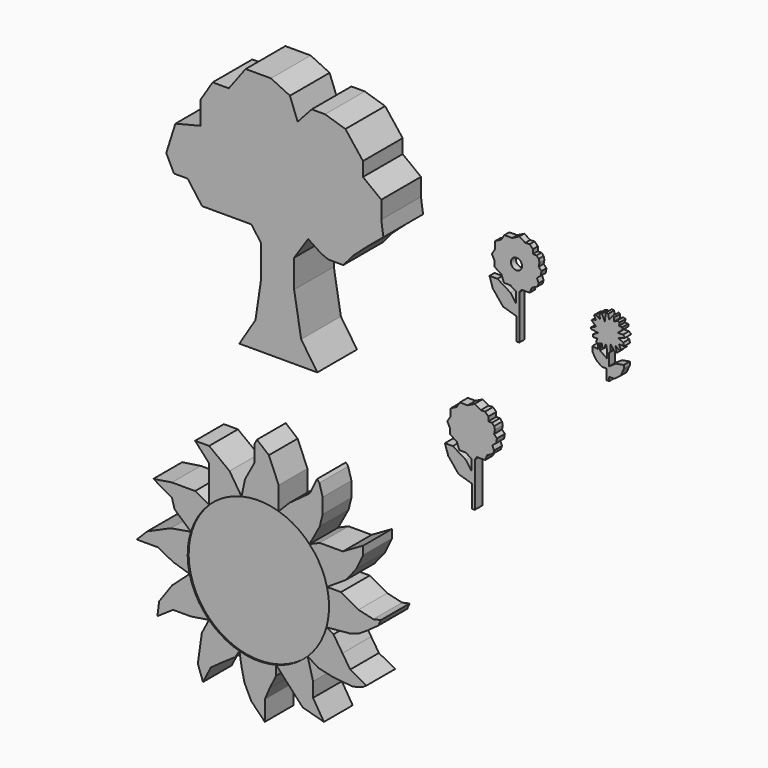
from build123d import *

# Parameters (mm, degrees)
F1_DEPTH       = 10.16
F2_T           = -2.54
F4_DEPTH       = 1.27
F6_D           = 1.143
F6_CBORE_D     = 2.286
F6_CBORE_DEPTH = 12.7
F8_DEPTH       = 2.032
F10_DEPTH      = 1.524
F12_DEPTH      = 7.366
F13_DEPTH      = 7.112


with BuildPart() as f1:
    # F0 (on Front) → F1 (new body)
    with BuildSketch(Plane.XZ):
        Polygon((-49.3586882949, 1.1512254132), (-33.3854667842, 1.1512254132), (-36.6952344775, 6.0439240187), (-38.1342619658, 14.5341930911), (-38.1342619658, 20.2903095633), (-35.256203264, 24.6073957533), (-32.567439448, 22.8148857692), (-31.1005488038, 22.2385339615), (-28.0610602349, 22.2385339615), (-26.0464213789, 24.6073957533), (-23.3122706413, 27.0537417382), (-19.8586024344, 29.9317985773), (-20.2903114259, 32.9537577927), (-20.2903114259, 36.5513302386), (-24.0317843854, 39.4293889403), (-24.0317843854, 42.3074476421), (-27.6293568313, 46.9123385847), (-31.8025425076, 48.2074655592), (-34.5366969705, 48.2074655592), (-37.4147519469, 45.0416021049), (-38.9976836741, 49.2147840559), (-42.8830571473, 51.085524261), (-48.0635613203, 51.085524261), (-51.5172295272, 46.4806333184), (-54.8269972205, 46.4806333184), (-57.2733432055, 42.59525612), (-57.2733432055, 37.8464609385), (-62.4538511038, 36.5513339639), (-64.3245875835, 30.6513160467), (-62.7416595817, 27.4616854338), (-59.936969516, 27.4616854338), (-58.5191248829, 25.5374682793), (-56.9855384529, 23.4561730176), (-52.8123565018, 23.4561730176), (-49.7903972864, 23.4561730176), (-46.9123385847, 23.4561730176), (-44.897697866, 20.7220185548), (-44.897697866, 14.2463883385), (-46.0489206016, 6.4756325446), align=None)
    extrude(amount=-F1_DEPTH)

    # F2 (hollow: no face is removed)
    offset(amount=F2_T, kind=Kind.INTERSECTION, mode=Mode.SUBTRACT)


with BuildPart() as f4:
    # F3 (on Front) → F4 (new body)
    with BuildSketch(Plane.XZ):
        Polygon((7.4410112575, 19.9936237186), (7.985544391, 19.9936237186), (7.985544391, 29.069179669), (8.4249047594, 29.6680759639), (10.1208696142, 29.6680759639), (10.5180805549, 30.6943561882), (11.694601737, 31.2933139503), (11.9512965903, 31.9992266595), (11.5876449272, 32.8120961785), (12.3577313498, 33.4324426949), (12.5288618729, 34.3522690237), (11.9512965903, 34.9512249231), (12.1050868183, 35.7733517885), (11.9512965903, 36.3838784397), (11.5096953503, 36.8418347536), (10.7568372041, 36.8418347536), (10.7568372041, 37.7321317792), (10.108580058, 38.4043976749), (9.1991248812, 38.3680984378), (7.985544391, 39.1127951443), (6.5340171568, 38.3680984378), (4.9145366866, 38.3680984378), (4.2948187329, 37.358187139), (3.0446275263, 36.6926454008), (3.0446275263, 35.2692993545), (2.3586999159, 34.1514907777), (2.8893150611, 33.1229269505), (2.8893150611, 31.9887731454), (4.2948187329, 31.1263054609), (4.83935175, 29.7347195446), (6.1099296436, 29.7347195446), (7.3200040497, 29.0086753666), (7.3200040497, 26.7700385302), (7.4410112575, 24.5314016938), align=None)
        Polygon((4.6578408219, 25.3784544766), (7.4410112575, 24.5314016938), (7.3200040497, 26.7700385302), (6.1704334803, 28.4036397934), (3.5082700197, 30.0372391939), (1.8746703863, 30.0372391939), (2.5402109604, 27.980113402), align=None)
    extrude(amount=-F4_DEPTH)

    # F6 (through all)
    with Locations(Plane.XZ):
        with Locations((7.4002626352, 33.9612066746)):
            CounterBoreHole(F6_D / 2, F6_CBORE_D / 2, F6_CBORE_DEPTH)


with BuildPart() as f8:
    # F7 (on Front) → F8 (new body)
    with BuildSketch(Plane.XZ):
        Polygon((-0.0630910555, -11.7885300568), (0.481442078, -11.7885300568), (0.481442078, -2.7129741064), (0.9208024464, -2.1140778116), (2.6167673012, -2.1140778116), (3.0139782419, -1.0877975872), (4.190499424, -0.4888398251), (4.4471942773, 0.2170728841), (4.0835426142, 1.0299424031), (4.8536290368, 1.6502889195), (5.0247595599, 2.5701152482), (4.4471942773, 3.1690711477), (4.6009845053, 3.9911980131), (4.4471942773, 4.6017246642), (4.0055930373, 5.0596809782), (3.2527348911, 5.0596809782), (3.2527348911, 5.9499780038), (2.604477745, 6.6222438995), (1.6950225682, 6.5859446624), (0.481442078, 7.3306413689), (-0.9700851562, 6.5859446624), (-2.5895656264, 6.5859446624), (-3.2092835801, 5.5760333636), (-4.4594747867, 4.9104916253), (-4.4594747867, 3.4871455791), (-5.1454023971, 2.3693370023), (-4.6147872519, 1.340773175), (-4.6147872519, 0.20661937), (-3.2092835801, -0.6558483145), (-2.664750563, -2.0474342308), (-1.3941726694, -2.0474342308), (-0.1840982633, -2.7734784088), (-0.1840982633, -5.0121152452), (-0.0630910555, -7.2507520816), align=None)
        Polygon((-2.8462614911, -6.4036992988), (-0.0630910555, -7.2507520816), (-0.1840982633, -5.0121152452), (-1.3336688327, -3.378513982), (-3.9958322933, -1.7449145815), (-5.6294319267, -1.7449145815), (-4.9638913526, -3.8020403734), align=None)
    extrude(amount=F8_DEPTH)


with BuildPart() as f10:
    # F9 (on Front) → F10 (new body)
    with BuildSketch(Plane.XZ):
        Polygon((27.128951624, 25.7052686065), (27.5523904711, 25.120517239), (27.8750117868, 25.543956086), (27.8750117868, 26.8142763525), (28.7622194737, 25.6851036102), (29.2058233172, 25.6851036102), (28.8227107376, 26.8949326128), (29.6494271606, 26.2900181115), (30.0123747438, 26.4513287693), (29.6240647412, 27.3250229124), (30.677780509, 27.3250229124), (30.4761435837, 27.9232859612), (29.5284446329, 28.4072179347), (30.8995824307, 28.9314761758), (30.4358154535, 29.3347537518), (29.3872971088, 29.3347537518), (30.2946697921, 30.1413051784), (30.2946697921, 30.625237152), (29.5889358968, 30.625237152), (29.7502465546, 31.3309691846), (29.2284742634, 31.4502317767), (28.627025216, 31.1091691256), (28.6108504651, 31.8531986993), (28.3589437604, 32.0568680763), (27.5927186012, 31.1091691256), (27.3888777139, 32.0957534456), (26.9071497023, 32.1576856077), (26.6971726888, 30.524417758), (26.114897459, 31.741905441), (25.5360100418, 31.6132642329), (25.7779750973, 30.524417758), (24.8975300205, 31.1297386449), (24.5079661513, 30.9434259662), (24.8975300205, 30.1288812485), (24.5079661513, 30.1204123667), (24.0035597235, 29.8791751266), (24.8975300205, 28.9943241251), (24.5079661513, 28.8080114464), (23.8215899134, 28.479745389), (23.9430684596, 28.2257441431), (25.2940431237, 28.0039422214), (24.3160656901, 27.4207243299), (24.3274573813, 26.8967128464), (25.173060596, 26.9150957465), (24.9259189807, 26.2907673418), (25.072241202, 25.9472317994), (25.8787944913, 26.2907673418), (26.114897459, 26.2907673418), (26.1298903566, 25.6011023638), (26.3627264649, 25.4633016884), (26.9474759698, 26.4513287693), align=None)
        Polygon((27.0886234939, 22.1362728626), (27.0886234939, 20.0190730393), (27.5927186012, 20.0190730393), (27.5927186012, 20.8054613322), (27.5523904711, 22.6605329663), (27.5523904711, 25.120517239), (27.128951624, 25.7052686065), (27.128951624, 23.9711795002), (25.7376488298, 24.9592065811), (25.7376488298, 26.1085443199), (25.27387999, 25.8867423981), (25.27387999, 25.0600259751), (24.1447072476, 25.2414997667), (24.1447072476, 24.2938008159), (24.8907674104, 23.0234805495), (26.100596413, 22.1362728626), align=None)
        Polygon((27.5523904711, 22.6605329663), (27.5927186012, 20.8054613322), (28.7218913436, 20.8256263286), (29.9720484763, 21.7934884131), (30.5971261114, 23.2452824712), (30.5971261114, 23.9308532327), (29.0041863918, 23.6485581845), (28.0363224447, 23.0033174157), align=None)
    extrude(amount=F10_DEPTH)


with BuildPart() as f12:
    # F11 (on Front) → F12 (new body)
    with BuildSketch(Plane.XZ):
        with BuildLine():
            Line((-44.3009428822, -50.7207894667), (-43.4404728747, -49.3459318914))
            ThreePointArc((-43.4404728747, -49.3459318914), (-46.7847521085, -47.9474551057), (-49.6765977863, -45.7617814133))
            Line((-49.6765977863, -45.7617814133), (-51.1408634484, -48.5701039433))
            Line((-51.1408634484, -48.5701039433), (-51.9680343568, -54.3978996575))
            Line((-51.9680343568, -54.3978996575), (-50.9152710438, -57.368196547))
            Line((-50.9152710438, -57.368196547), (-49.2985285819, -54.2099066079))
            Line((-49.2985285819, -54.2099066079), (-46.6290228069, -52.2923730314))
            Line((-46.6290228069, -52.2923730314), (-44.3009428822, -50.7207894667))
        make_face()
    extrude(amount=F12_DEPTH)


with BuildPart() as f12b:
    # F11 (on Front) → F12, piece 2 (new body)
    with BuildSketch(Plane.XZ):
        with BuildLine():
            Line((-53.3591881394, -46.3517792523), (-49.6765977863, -45.7617814133))
            ThreePointArc((-49.6765977863, -45.7617814133), (-52.1561482038, -42.5494285312), (-53.6463669771, -38.7749577976))
            Line((-53.6463669771, -38.7749577976), (-57.2318509221, -41.9903323054))
            Line((-57.2318509221, -41.9903323054), (-59.9013604224, -45.7617814133))
            Line((-59.9013604224, -45.7617814133), (-60.2397471666, -48.5325045884))
            Line((-60.2397471666, -48.5325045884), (-57.0438578725, -46.3517792523))
            Line((-57.0438578725, -46.3517792523), (-53.3591881394, -46.3517792523))
        make_face()
    extrude(amount=F12_DEPTH)


with BuildPart() as f12c:
    # F11 (on Front) → F12, piece 3 (new body)
    with BuildSketch(Plane.XZ):
        with BuildLine():
            ThreePointArc((-53.6463669771, -38.7749577976), (-54.0369984396, -34.9079206853), (-53.384391537, -31.0763840225))
            Line((-53.384391537, -31.0763840225), (-57.5326420367, -31.8010896444))
            Line((-57.5326420367, -31.8010896444), (-62.3076744378, -33.9066162705))
            Line((-62.3076744378, -33.9066162705), (-64.4684880972, -36.079826484))
            Line((-64.4684880972, -36.079826484), (-60.1590225763, -36.079826484))
            Line((-60.1590225763, -36.079826484), (-57.0438578725, -37.7040803432))
            Line((-57.0438578725, -37.7040803432), (-53.6463669771, -38.7749577976))
        make_face()
    extrude(amount=F12_DEPTH)


with BuildPart() as f12d:
    # F11 (on Front) → F12, piece 4 (new body)
    with BuildSketch(Plane.XZ):
        with BuildLine():
            ThreePointArc((-53.384391537, -31.0763840225), (-51.8947261541, -27.8091047281), (-49.6464930475, -25.0091645791))
            Line((-49.6464930475, -25.0091645791), (-52.5245480239, -23.4561692923))
            Line((-52.5245480239, -23.4561692923), (-57.2733432055, -23.4561692923))
            Line((-57.2733432055, -23.4561692923), (-61.0706916354, -24.0343352772))
            Line((-61.0706916354, -24.0343352772), (-57.2733432055, -26.1903237551))
            Line((-57.2733432055, -26.1903237551), (-56.7168168011, -28.1291678552))
            Line((-56.7168168011, -28.1291678552), (-53.384391537, -31.0763840225))
        make_face()
    extrude(amount=F12_DEPTH)


with BuildPart() as f12e:
    # F11 (on Front) → F12, piece 5 (new body)
    with BuildSketch(Plane.XZ):
        with BuildLine():
            ThreePointArc((-49.6464930475, -25.0091645791), (-46.5776485619, -22.7359818336), (-43.0210309995, -21.3447098309))
            Line((-43.0210309995, -21.3447098309), (-45.4733073711, -17.5561513752))
            Line((-45.4733073711, -17.5561513752), (-49.6464930475, -14.3902888522))
            Line((-49.6464930475, -14.3902888522), (-52.5245480239, -14.3902888522))
            Line((-52.5245480239, -14.3902888522), (-49.6464930475, -17.5561513752))
            Line((-49.6464930475, -17.5561513752), (-49.6464930475, -21.8732375652))
            Line((-49.6464930475, -21.8732375652), (-49.6464930475, -25.0091645791))
        make_face()
    extrude(amount=F12_DEPTH)


with BuildPart() as f12f:
    # F11 (on Front) → F12, piece 6 (new body)
    with BuildSketch(Plane.XZ):
        with BuildLine():
            ThreePointArc((-43.0210309995, -21.3447098309), (-39.2012497774, -20.9328094842), (-35.4076880997, -21.5404938416))
            Line((-35.4076880997, -21.5404938416), (-35.4076880997, -16.8366318149))
            Line((-35.4076880997, -16.8366318149), (-37.4182048665, -12.085968847))
            Line((-37.4182048665, -12.085968847), (-39.8512596848, -10.0713281283))
            Line((-39.8512596848, -10.0713281283), (-40.4080982027, -11.0995909657))
            Line((-40.4080982027, -11.0995909657), (-40.4080982027, -14.5026352715))
            Line((-40.4080982027, -14.5026352715), (-42.2928309409, -17.9829990948))
            Line((-42.2928309409, -17.9829990948), (-43.0210309995, -21.3447098309))
        make_face()
    extrude(amount=F12_DEPTH)


with BuildPart() as f12g:
    # F11 (on Front) → F12, piece 7 (new body)
    with BuildSketch(Plane.XZ):
        with BuildLine():
            ThreePointArc((-35.4076880997, -21.5404938416), (-32.0003067176, -23.0675871621), (-29.0970503414, -25.4156425929))
            Line((-29.0970503414, -25.4156425929), (-26.9985284374, -21.5404938416))
            Line((-26.9985284374, -21.5404938416), (-26.4009311795, -19.1679317504))
            Line((-26.4009311795, -19.1679317504), (-26.4009311795, -16.0848405212))
            Line((-26.4009311795, -16.0848405212), (-27.0777083933, -13.7161230668))
            Line((-27.0777083933, -13.7161230668), (-27.5288932025, -13.1521429867))
            Line((-27.5288932025, -13.1521429867), (-29.0704388171, -16.2728335708))
            Line((-29.0704388171, -16.2728335708), (-33.1686958671, -19.2807279527))
            Line((-33.1686958671, -19.2807279527), (-35.4076880997, -21.5404938416))
        make_face()
    extrude(amount=F12_DEPTH)


with BuildPart() as f12h:
    # F11 (on Front) → F12, piece 8 (new body)
    with BuildSketch(Plane.XZ):
        with BuildLine():
            ThreePointArc((-29.0970503414, -25.4156425929), (-26.8767937957, -28.4545964719), (-25.5152180125, -31.9632844309))
            Line((-25.5152180125, -31.9632844309), (-21.6259006411, -29.4323731214))
            Line((-21.6259006411, -29.4323731214), (-19.4932212734, -26.7621489931))
            Line((-19.4932212734, -26.7621489931), (-18.09162274, -23.7925704569))
            Line((-18.09162274, -23.7925704569), (-18.09162274, -22.100629285))
            Line((-18.09162274, -22.100629285), (-22.2650766373, -24.506945163))
            Line((-22.2650766373, -24.506945163), (-26.9985284374, -24.506945163))
            Line((-26.9985284374, -24.506945163), (-29.0970503414, -25.4156425929))
        make_face()
    extrude(amount=F12_DEPTH)


with BuildPart() as f12i:
    # F11 (on Front) → F12, piece 9 (new body)
    with BuildSketch(Plane.XZ):
        with BuildLine():
            ThreePointArc((-25.5152180125, -31.9632844309), (-25.2050837094, -33.6692726858), (-25.1012085572, -35.4001075029))
            ThreePointArc((-25.1012085572, -35.4001075029), (-25.2339006195, -37.3553704867), (-25.6295435441, -39.2747785192))
            Line((-25.6295435441, -39.2747785192), (-20.9115240723, -38.8320460916))
            Line((-20.9115240723, -38.8320460916), (-18.9379371569, -38.2184680606))
            Line((-18.9379371569, -38.2184680606), (-17.0906181657, -37.016354661))
            Line((-17.0906181657, -37.016354661), (-14.9709321558, -35.4857631028))
            Line((-14.9709321558, -35.4857631028), (-14.482148923, -34.357804805))
            Line((-14.482148923, -34.357804805), (-16.0236954689, -34.6961915493))
            Line((-16.0236954689, -34.6961915493), (-19.0691892058, -33.9818149805))
            Line((-19.0691892058, -33.9818149805), (-22.6410627365, -31.9632844309))
            Line((-22.6410627365, -31.9632844309), (-25.5152180125, -31.9632844309))
        make_face()
    extrude(amount=F12_DEPTH)


with BuildPart() as f12j:
    # F11 (on Front) → F12, piece 10 (new body)
    with BuildSketch(Plane.XZ):
        with BuildLine():
            Line((-24.1826102138, -40.0728024542), (-25.6295435441, -39.2747785192))
            ThreePointArc((-25.6295435441, -39.2747785192), (-27.1199563231, -42.7727338609), (-29.4699811217, -45.7617814133))
            Line((-29.4699811217, -45.7617814133), (-27.265701443, -47.141354531))
            Line((-27.265701443, -47.141354531), (-24.4458001107, -47.7805323899))
            Line((-24.4458001107, -47.7805323899), (-20.2723462135, -48.2317134738))
            Line((-20.2723462135, -48.2317134738), (-18.2913695398, -47.6872713857))
            Line((-18.2913695398, -47.6872713857), (-17.4524448812, -47.141354531))
            Line((-17.4524448812, -47.141354531), (-20.7696015564, -45.3176618097))
            Line((-20.7696015564, -45.3176618097), (-22.3522487599, -42.8855666043))
            Line((-22.3522487599, -42.8855666043), (-24.1826102138, -40.0728024542))
        make_face()
    extrude(amount=F12_DEPTH)


with BuildPart() as f12k:
    # F11 (on Front) → F12, piece 11 (new body)
    with BuildSketch(Plane.XZ):
        with BuildLine():
            Line((-28.3678412823, -49.9236546457), (-29.4699811217, -45.7617814133))
            ThreePointArc((-29.4699811217, -45.7617814133), (-32.4581497239, -48.0023260419), (-35.9202006582, -49.4035380731))
            Line((-35.9202006582, -49.4035380731), (-30.4991882294, -55.3002655506))
            Line((-30.4991882294, -55.3002655506), (-26.1377412826, -56.5034225583))
            Line((-26.1377412826, -56.5034225583), (-28.3678412823, -52.8939478099))
            Line((-28.3678412823, -52.8939478099), (-28.3678412823, -49.9236546457))
        make_face()
    extrude(amount=F12_DEPTH)


with BuildPart() as f12l:
    # F11 (on Front) → F12, piece 12 (new body)
    with BuildSketch(Plane.XZ):
        with BuildLine():
            Line((-35.9202006582, -51.3524043039), (-35.9202006582, -49.4035380731))
            ThreePointArc((-35.9202006582, -49.4035380731), (-39.6841440667, -49.8717638262), (-43.4404728747, -49.3459318914))
            Line((-43.4404728747, -49.3459318914), (-43.0195480585, -52.0291812718))
            Line((-43.0195480585, -52.0291812718), (-42.4179695547, -54.7362864017))
            Line((-42.4179695547, -54.7362864017), (-40.9892201424, -57.6313845813))
            Line((-40.9892201424, -57.6313845813), (-38.2445156574, -60.4373330573))
            Line((-38.2445156574, -60.4373330573), (-38.2445156574, -56.3530288637))
            Line((-38.2445156574, -56.3530288637), (-37.2293516994, -53.984310478))
            Line((-37.2293516994, -53.984310478), (-35.9202006582, -51.3524043039))
        make_face()
    extrude(amount=F12_DEPTH)


with BuildPart() as f13:
    # F11 (on Front) → F13 (new body)
    with BuildSketch(Plane.XZ):
        with BuildLine():
            ThreePointArc((-25.6295435441, -39.2747785192), (-25.2339006195, -37.3553704867), (-25.1012085572, -35.4001075029))
            ThreePointArc((-25.1012085572, -35.4001075029), (-25.2050837094, -33.6692726858), (-25.5152180125, -31.9632844309))
            ThreePointArc((-25.5152180125, -31.9632844309), (-26.8767937957, -28.4545964719), (-29.0970503414, -25.4156425929))
            ThreePointArc((-29.0970503414, -25.4156425929), (-32.0003067176, -23.0675871621), (-35.4076880997, -21.5404938416))
            ThreePointArc((-35.4076880997, -21.5404938416), (-39.2012497774, -20.9328094842), (-43.0210309995, -21.3447098309))
            ThreePointArc((-43.0210309995, -21.3447098309), (-46.5776485619, -22.7359818336), (-49.6464930475, -25.0091645791))
            ThreePointArc((-49.6464930475, -25.0091645791), (-51.8947261541, -27.8091047281), (-53.384391537, -31.0763840225))
            ThreePointArc((-53.384391537, -31.0763840225), (-54.0369984396, -34.9079206853), (-53.6463669771, -38.7749577976))
            ThreePointArc((-53.6463669771, -38.7749577976), (-52.1561482038, -42.5494285312), (-49.6765977863, -45.7617814133))
            ThreePointArc((-49.6765977863, -45.7617814133), (-46.7847521085, -47.9474551057), (-43.4404728747, -49.3459318914))
            ThreePointArc((-43.4404728747, -49.3459318914), (-39.6841440667, -49.8717638262), (-35.9202006582, -49.4035380731))
            ThreePointArc((-35.9202006582, -49.4035380731), (-32.4581497239, -48.0023260419), (-29.4699811217, -45.7617814133))
            ThreePointArc((-29.4699811217, -45.7617814133), (-27.1199563231, -42.7727338609), (-25.6295435441, -39.2747785192))
        make_face()
    extrude(amount=F13_DEPTH)


solid = Compound([f1.part, f4.part, f8.part, f10.part, f12.part, f12b.part, f12c.part, f12d.part, f12e.part, f12f.part, f12g.part, f12h.part, f12i.part, f12j.part, f12k.part, f12l.part, f13.part])
